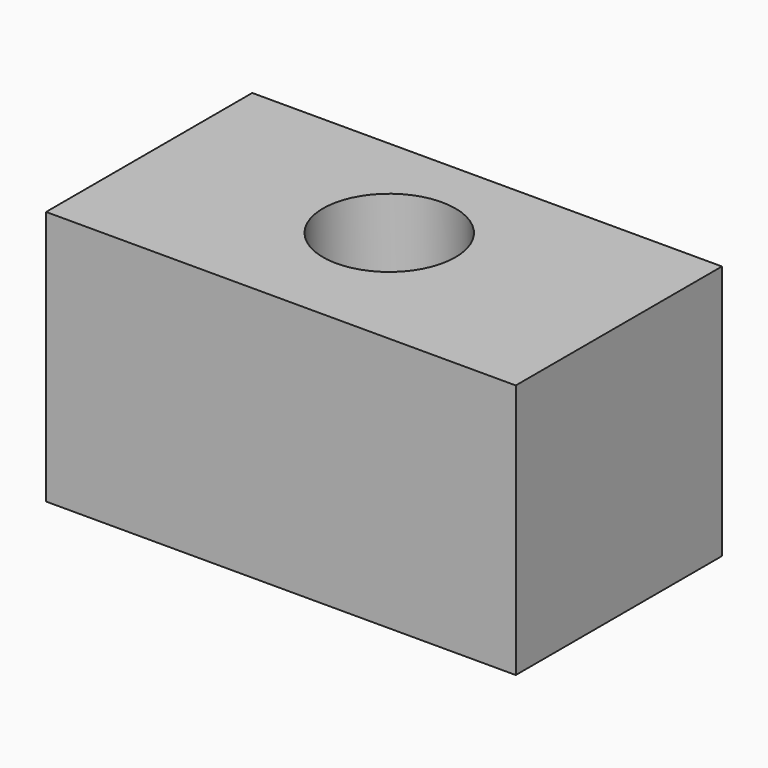
from build123d import *

# Parameters (mm, degrees)
F0_W     = 300
F0_H     = 162.857144
F1_DEPTH = 164.592
F2_R     = 42.277958
F3_DEPTH = 337.82


with BuildPart() as f1:
    # F0 (on Front) → F1 (new body)
    with BuildSketch(Plane.XZ):
        with Locations((150, 81.428572)):
            Rectangle(F0_W, F0_H)
    extrude(amount=F1_DEPTH)

    # F2 (on face) → F3 (cut)
    with BuildSketch(Plane.XY.offset(162.857144)):
        with Locations((147.753745, -75.31742)):
            Circle(F2_R)
    extrude(amount=-F3_DEPTH, mode=Mode.SUBTRACT)


solid = f1.part
